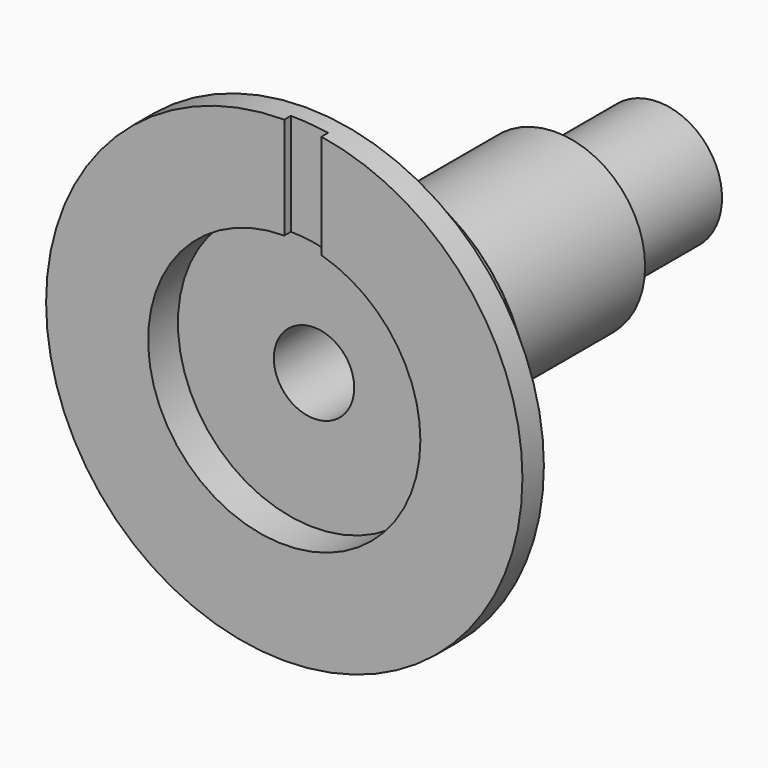
from build123d import *

# Parameters (mm, degrees)
F0_R      = 60
F1_DEPTH  = 160
F2_R      = 115
F3_DEPTH  = 50
F4_R      = 160
F5_DEPTH  = 18
F6_SIZE   = 5
F7_R      = 42.875
F8_DEPTH  = 86
F9_R      = 27
F10_DEPTH = 430
F11_R     = 91.436725
F12_DEPTH = 25
F13_W     = 16.456575
F13_H     = 102.537059
F14_DEPTH = 25


with BuildPart() as f1:
    # F0 (on Front) → F1 (new body)
    with BuildSketch(Plane.XZ):
        Circle(F0_R)
    extrude(amount=F1_DEPTH)

    # F2 (on face) → F3 (join)
    with BuildSketch(Plane.XZ.offset(160)):
        Circle(F2_R)
    extrude(amount=F3_DEPTH)

    # F4 (on face) → F5 (join)
    with BuildSketch(Plane.XZ.offset(210)):
        Circle(F4_R)
    extrude(amount=F5_DEPTH)

    # F6
    f6_edges = [f1.edges().sort_by_distance(p)[0] for p in [
        (-115, -160, 0),
    ]]
    chamfer(f6_edges, length=F6_SIZE)

    # F7 (on face) → F8 (join)
    with BuildSketch(Plane(origin=(0, 0, 0), x_dir=(-1, 0, 0), z_dir=(0, 1, 0))):
        Circle(F7_R)
    extrude(amount=F8_DEPTH)

    # F9 (on face) → F10 (cut)
    with BuildSketch(Plane(origin=(0, 86, 0), x_dir=(-1, 0, 0), z_dir=(0, 1, 0))):
        Circle(F9_R)
    extrude(amount=-F10_DEPTH, mode=Mode.SUBTRACT)

    # F11 (on face) → F12 (cut)
    with BuildSketch(Plane.XZ.offset(228)):
        Circle(F11_R)
    extrude(amount=-F12_DEPTH, mode=Mode.SUBTRACT)

    # F13 (on Right) → F14 (cut)
    with BuildSketch(Plane.YZ):
        with Locations((-230.708375, 115.195948)):
            Rectangle(F13_W, F13_H)
    extrude(amount=F14_DEPTH, mode=Mode.SUBTRACT)


solid = f1.part
